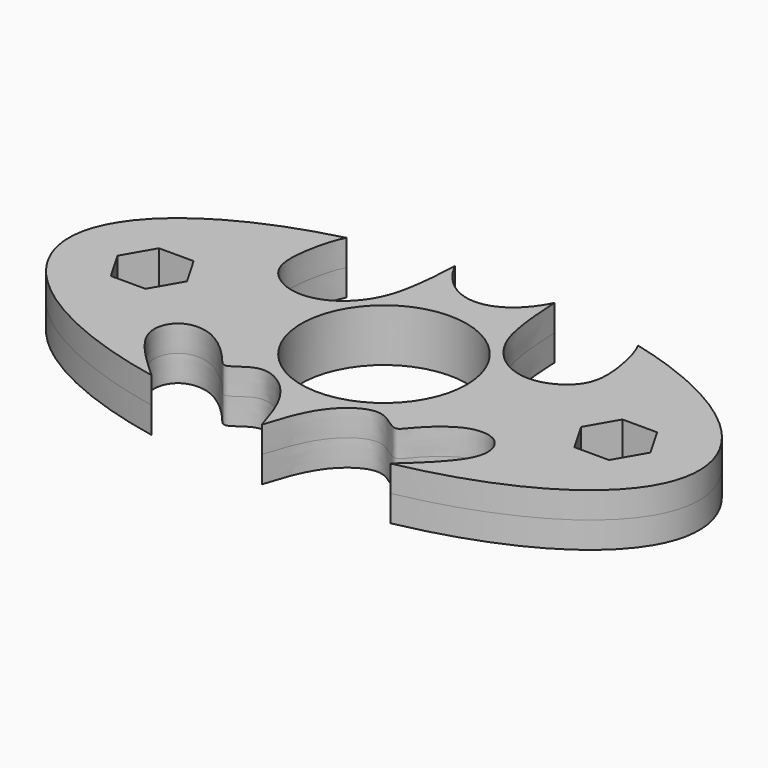
from build123d import *

# Parameters (mm, degrees)
F0_R     = 11
F1_DEPTH = 3.5


with BuildPart() as f1:
    # F0 (on Top) → F1 (new body, symmetric)
    with BuildSketch(Plane.XY):
        with BuildLine():
            add(Edge.make_bspline(
                [(-19.3891526339, 18.0166188308), (-20.199214405, 16.5708061506), (-21.4998763382, 11.2438352535), (-20.528008139, 7.3739190314), (-17.4485469542, 5.2647605065), (-14.3152950704, 4.9069272778), (-11.2619204263, 6.0774086101), (-8.9144012224, 8.4638422289), (-7.1154239281, 12.1833052596), (-6.7063298587, 18.0118026802), (-6.6289601409, 20.0632424055)],
                knots=[0, 0, 0, 0, 0.1582411799, 0.2778980417, 0.3886439264, 0.4941195115, 0.6008399521, 0.707827902, 0.8317350207, 1, 1, 1, 1], degree=3))
            add(Edge.make_bspline(
                [(-19.3891526339, 18.0166188308), (-99.5108801964, -2.2245764876), (-15.882596568, -18.8051225984)],
                knots=[2.0514308483, 2.0514308483, 2.0514308483, 4.3239688515, 4.3239688515, 4.3239688515], degree=2, weights=[1, 0.4209816997, 1]))
            add(Edge.make_bspline(
                [(0, -20.3186912931), (-0.8086713119, -17.726159093), (-2.2946610487, -12.9622057877), (-8.0310369708, -9.3491157165), (-11.2776924749, -13.0398640411), (-12.5929408029, -10.9975331433), (-16.6729956202, -7.0085968344), (-21.1320337178, -7.2581556414), (-22.673715544, -10.477192432), (-20.9971589281, -14.1470483663), (-17.7727717692, -17.111456871), (-15.882596568, -18.8051225984)],
                knots=[0, 0, 0, 0, 0.1480373694, 0.2718953369, 0.3708749404, 0.4395181315, 0.5655218058, 0.6692170466, 0.7583754145, 0.8594039515, 1, 1, 1, 1], degree=3))
            add(Edge.make_bspline(
                [(0, -20.3186912931), (0.8086713119, -17.726159093), (2.2946610487, -12.9622057877), (8.0310369708, -9.3491157165), (11.2776924749, -13.0398640411), (12.5929408029, -10.9975331433), (16.6729956202, -7.0085968344), (21.1320337178, -7.2581556414), (22.673715544, -10.477192432), (20.9971589281, -14.1470483663), (17.7727717692, -17.111456871), (15.882596568, -18.8051225984)],
                knots=[0, 0, 0, 0, 0.1480373694, 0.2718953369, 0.3708749404, 0.4395181315, 0.5655218058, 0.6692170466, 0.7583754145, 0.8594039515, 1, 1, 1, 1], degree=3))
            add(Edge.make_bspline(
                [(15.882596568, -18.8051225984), (99.5108801964, -2.2245764876), (19.3891526339, 18.0166188308)],
                knots=[5.1008091093, 5.1008091093, 5.1008091093, 7.3733471124, 7.3733471124, 7.3733471124], degree=2, weights=[1, 0.4209816997, 1]))
            add(Edge.make_bspline(
                [(19.3891526339, 18.0166188308), (20.199214405, 16.5708061506), (21.4998763382, 11.2438352535), (20.528008139, 7.3739190314), (17.4485469542, 5.2647605065), (14.3152950704, 4.9069272778), (11.2619204263, 6.0774086101), (8.9144012224, 8.4638422289), (7.1154239281, 12.1833052596), (6.7063298587, 18.0118026802), (6.6289601409, 20.0632424055)],
                knots=[0, 0, 0, 0, 0.1582411799, 0.2778980417, 0.3886439264, 0.4941195115, 0.6008399521, 0.707827902, 0.8317350207, 1, 1, 1, 1], degree=3))
            add(Edge.make_bspline(
                [(-6.6289601409, 20.0632424055), (0, 6.9313530724), (6.6289601409, 20.0632424055)],
                knots=[5.3635736134, 5.3635736134, 5.3635736134, 7.202797001, 7.202797001, 7.202797001], degree=2, weights=[1, 0.606129048, 1]))
        make_face()
        Polygon((-33.1518063923, 4), (-28.5330042388, 4), (-26.223603162, 0), (-28.5330042388, -4), (-33.1518063923, -4), (-35.461207469, 0), align=None, mode=Mode.SUBTRACT)
        Circle(F0_R, mode=Mode.SUBTRACT)
        Polygon((33.1518063923, 4), (35.461207469, 0), (33.1518063923, -4), (28.5330042388, -4), (26.223603162, 0), (28.5330042388, 4), align=None, mode=Mode.SUBTRACT)
    extrude(amount=F1_DEPTH, both=True)


solid = f1.part
